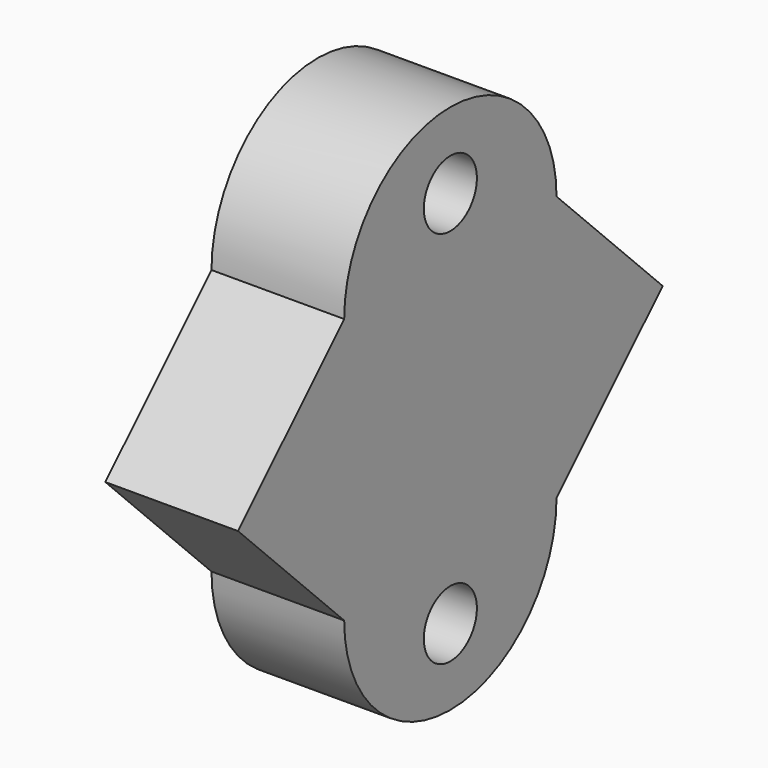
from build123d import *

# Parameters (mm, degrees)
F0_W     = 50.8
F0_H     = 50.8
F1_DEPTH = 25.4
F3_D     = 12.7


with BuildPart() as f1:
    # F0 (on Right) → F1 (new body)
    with BuildSketch(Plane.YZ):
        with BuildLine():
            ThreePointArc((6.2123674129, 49.3127632231), (-19.1876325871, 74.7127632231), (-44.5876325871, 49.3127632231))
            Line((-44.5876325871, 49.3127632231), (6.2123674129, 49.3127632231))
        make_face()
        with Locations((-19.1876325871, 23.9127632231)):
            Rectangle(F0_W, F0_H)
        Polygon((-44.5876325871, -1.4872367769), (-44.5876325871, 49.3127632231), (-69.9876325871, 23.9127632231), align=None)
        Polygon((31.6123674129, 23.9127632231), (6.2123674129, 49.3127632231), (6.2123674129, -1.4872367769), align=None)
        with BuildLine():
            Line((6.2123674129, -1.4872367769), (-44.5876325871, -1.4872367769))
            ThreePointArc((-44.5876325871, -1.4872367769), (-19.1876325871, -26.8872367769), (6.2123674129, -1.4872367769))
        make_face()
    extrude(amount=F1_DEPTH)

    # F3 (through all)
    with Locations(Plane.YZ.offset(25.4)):
        with Locations((-19.1876325871, 60.1578950882), (-19.1876325871, -12.3323686421)):
            Hole(F3_D / 2)


solid = f1.part
